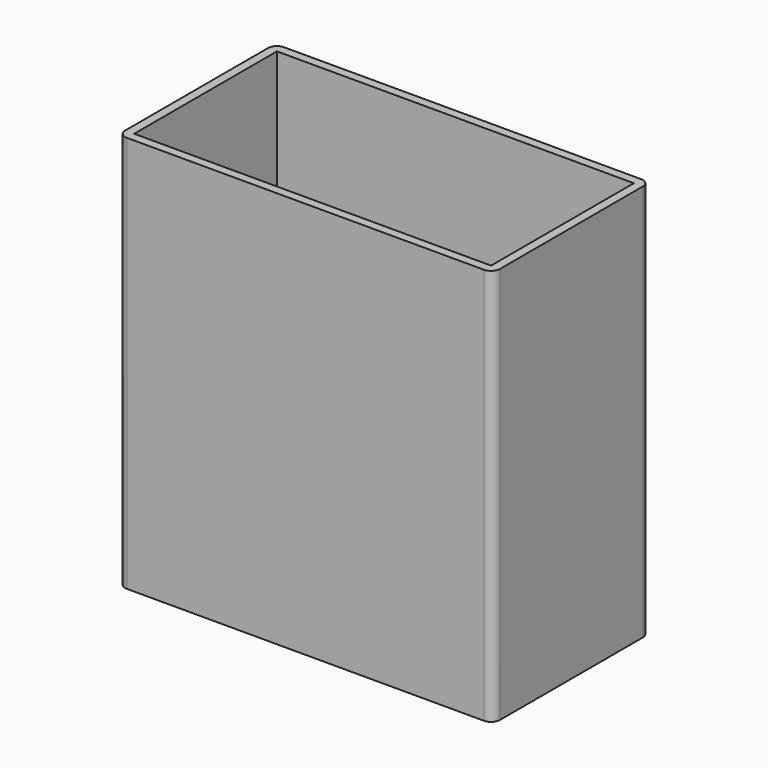
from build123d import *

# Parameters (mm, degrees)
F0_W     = 101.6
F0_H     = 50.8
F1_DEPTH = 113.03
F0_W_2   = 72.39
F0_H_2   = 25.4
F2_DEPTH = 6.35
F3_W     = 44.45
F3_H     = 4.318
F4_DEPTH = 2.54
F5_W     = 11.43
F5_H     = 3.175
F6_DEPTH = 63.5
F7_W     = 2.286
F7_H     = 3.175
F8_DEPTH = 63.5


with BuildPart() as f1:
    # F0 (on Top) → F1 (new body)
    with BuildSketch(Plane.XY):
        with BuildLine():
            ThreePointArc((53.34, 25.4), (52.5960512242, 27.1960512242), (50.8, 27.94))
            Line((50.8, 27.94), (-50.8, 27.94))
            ThreePointArc((-50.8, 27.94), (-52.5960512242, 27.1960512242), (-53.34, 25.4))
            Line((-53.34, 25.4), (-53.34, -25.4))
            ThreePointArc((-53.34, -25.4), (-52.5960512242, -27.1960512242), (-50.8, -27.94))
            Line((-50.8, -27.94), (50.8, -27.94))
            ThreePointArc((50.8, -27.94), (52.5960512242, -27.1960512242), (53.34, -25.4))
            Line((53.34, -25.4), (53.34, 25.4))
        make_face()
        Rectangle(F0_W, F0_H, mode=Mode.SUBTRACT)
    extrude(amount=F1_DEPTH)

    # F0 (on Top) → F2 (join)
    with BuildSketch(Plane.XY):
        with BuildLine():
            ThreePointArc((53.34, 25.4), (52.5960512242, 27.1960512242), (50.8, 27.94))
            Line((50.8, 27.94), (-50.8, 27.94))
            ThreePointArc((-50.8, 27.94), (-52.5960512242, 27.1960512242), (-53.34, 25.4))
            Line((-53.34, 25.4), (-53.34, -25.4))
            ThreePointArc((-53.34, -25.4), (-52.5960512242, -27.1960512242), (-50.8, -27.94))
            Line((-50.8, -27.94), (50.8, -27.94))
            ThreePointArc((50.8, -27.94), (52.5960512242, -27.1960512242), (53.34, -25.4))
            Line((53.34, -25.4), (53.34, 25.4))
        make_face()
        Rectangle(F0_W, F0_H, mode=Mode.SUBTRACT)
        Rectangle(F0_W, F0_H)
        with Locations((6.985, -4.826)):
            Rectangle(F0_W_2, F0_H_2, mode=Mode.SUBTRACT)
    extrude(amount=F2_DEPTH)

    # F3 (on face) → F4 (cut)
    with BuildSketch(Plane.XY.offset(6.35)):
        with Locations((20.955, 10.033)):
            Rectangle(F3_W, F3_H)
    extrude(amount=-F4_DEPTH, mode=Mode.SUBTRACT)

    # F5 (on face) → F6 (join)
    with BuildSketch(Plane.XY.offset(6.35)):
        with Locations((-45.085, 5.3975)):
            Rectangle(F5_W, F5_H)
        with Locations((-45.085, 0.1905)):
            Rectangle(F5_W, F5_H)
    extrude(amount=F6_DEPTH)

    # F7 (on face) → F8 (join)
    with BuildSketch(Plane.XY.offset(6.35)):
        with Locations((49.657, 5.3975)):
            Rectangle(F7_W, F7_H)
        with Locations((49.657, 0.1905)):
            Rectangle(F7_W, F7_H)
    extrude(amount=F8_DEPTH)


solid = f1.part
